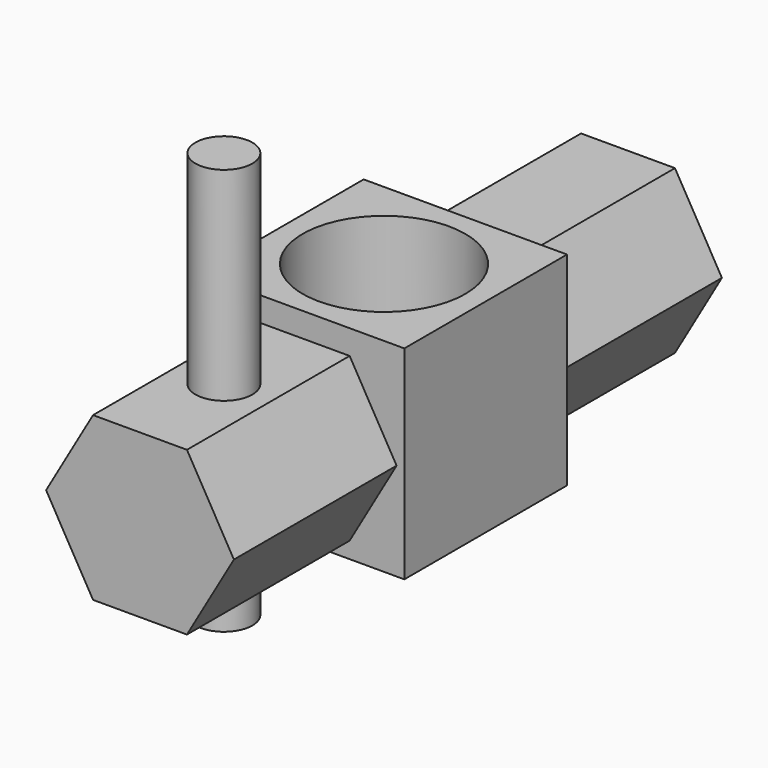
from build123d import *

# Parameters (mm, degrees)
F0_W          = 25
F0_H          = 25
F1_DEPTH      = 25
F2_R          = 10
F3_DEPTH      = 25.001
F5_DEPTH      = 25
F7_DEPTH      = 25
F8_R          = 3.5
F9_DEPTH      = 25
F9_DEPTH_BACK = 25


with BuildPart() as f1:
    # F0 (on Top) → F1 (new body)
    with BuildSketch(Plane.XY):
        Rectangle(F0_W, F0_H)
    extrude(amount=F1_DEPTH)

    # F2 (on face) → F3 (cut, through all)
    with BuildSketch(Plane.XY.offset(25)):
        Circle(F2_R)
    extrude(amount=-F3_DEPTH, mode=Mode.SUBTRACT)

    # F4 (on face) → F5 (join)
    with BuildSketch(Plane(origin=(0, 12.5, 0), x_dir=(-1, 0, 0), z_dir=(0, 1, 0))):
        Polygon((-11.547005, 12), (-5.773503, 2), (5.773503, 2), (11.547005, 12), (5.773503, 22), (-5.773503, 22), align=None)
    extrude(amount=F5_DEPTH)


with BuildPart() as f7:
    # F6 (on face) → F7 (new body)
    with BuildSketch(Plane.XZ.offset(12.5)):
        Polygon((5.773503, 2), (11.547005, 12), (5.773503, 22), (-5.773503, 22), (-11.547005, 12), (-5.773503, 2), align=None)
    extrude(amount=F7_DEPTH)

    # F8 (on face) → F9 (join, two sides)
    with BuildSketch(Plane.XY.offset(22)) as f9_sk:
        with Locations((0, -24.60302)):
            Circle(F8_R)
    extrude(amount=F9_DEPTH)
    extrude(f9_sk.sketch, amount=-F9_DEPTH_BACK)


solid = Compound([f1.part, f7.part])
